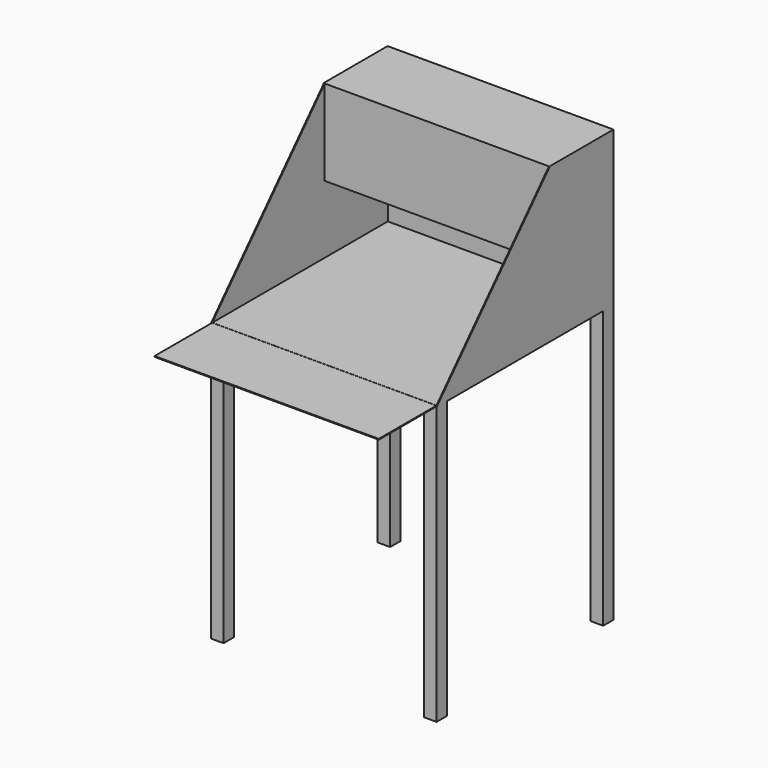
from build123d import *

# Parameters (mm, degrees)
F0_W      = 705
F0_H      = 480
F1_DEPTH  = 690
F4_T      = -2.54
F5_DEPTH  = 705
F2_W      = 705
F2_H      = 250
F6_DEPTH  = 2.54
F7_W      = 699.92
F7_H      = 2.54
F8_DEPTH  = 265
F9_W      = 40
F9_H      = 40
F9_W_2    = 30
F9_H_2    = 30
F10_DEPTH = 865
F11_W     = 699.92
F11_H     = 225
F12_DEPTH = 2.54


with BuildPart() as f1:
    # F0 (on Front) → F1 (new body)
    with BuildSketch(Plane.XZ):
        Rectangle(F0_W, F0_H)
    extrude(amount=F1_DEPTH)

    # F4
    f4_openings = [f1.faces().sort_by_distance(p)[0] for p in [
        (0, -345, 240),
    ]]
    offset(amount=F4_T, openings=f4_openings)

    # F3 (on face) → F5 (cut, through all)
    with BuildSketch(Plane.YZ.offset(352.5)):
        Polygon((-690, -240), (-250, 240), (-690, 240), align=None)
    extrude(amount=-F5_DEPTH, mode=Mode.SUBTRACT)

    # F2 (on face) → F6 (join)
    with BuildSketch(Plane.XY.offset(240)):
        with Locations((0, -125)):
            Rectangle(F2_W, F2_H)
    extrude(amount=F6_DEPTH)

    # F7 (on face) → F8 (join)
    with BuildSketch(Plane(origin=(0, 0, 240), x_dir=(1, 0, 0), z_dir=(0, 0, -1))):
        with Locations((0, 248.73)):
            Rectangle(F7_W, F7_H)
    extrude(amount=F8_DEPTH)

    # F9 (on face) → F10 (join)
    with BuildSketch(Plane(origin=(0, 0, -240), x_dir=(1, 0, 0), z_dir=(0, 0, -1))):
        with Locations((-332.5, 670)):
            Rectangle(F9_W, F9_H)
        with Locations((-332.5, 670)):
            Rectangle(F9_W_2, F9_H_2, mode=Mode.SUBTRACT)
        with Locations((-332.5, 20)):
            Rectangle(F9_W, F9_H)
        with Locations((-332.5, 20)):
            Rectangle(F9_W_2, F9_H_2, mode=Mode.SUBTRACT)
        with Locations((332.5, 20)):
            Rectangle(F9_W, F9_H)
        with Locations((332.5, 20)):
            Rectangle(F9_W_2, F9_H_2, mode=Mode.SUBTRACT)
        with Locations((332.5, 670)):
            Rectangle(F9_W, F9_H)
        with Locations((332.5, 670)):
            Rectangle(F9_W_2, F9_H_2, mode=Mode.SUBTRACT)
    extrude(amount=F10_DEPTH)

    # F11 (on face) → F12 (join)
    with BuildSketch(Plane.XY.offset(-237.46)):
        with Locations((0, -799.96)):
            Rectangle(F11_W, F11_H)
    extrude(amount=-F12_DEPTH)


solid = f1.part
